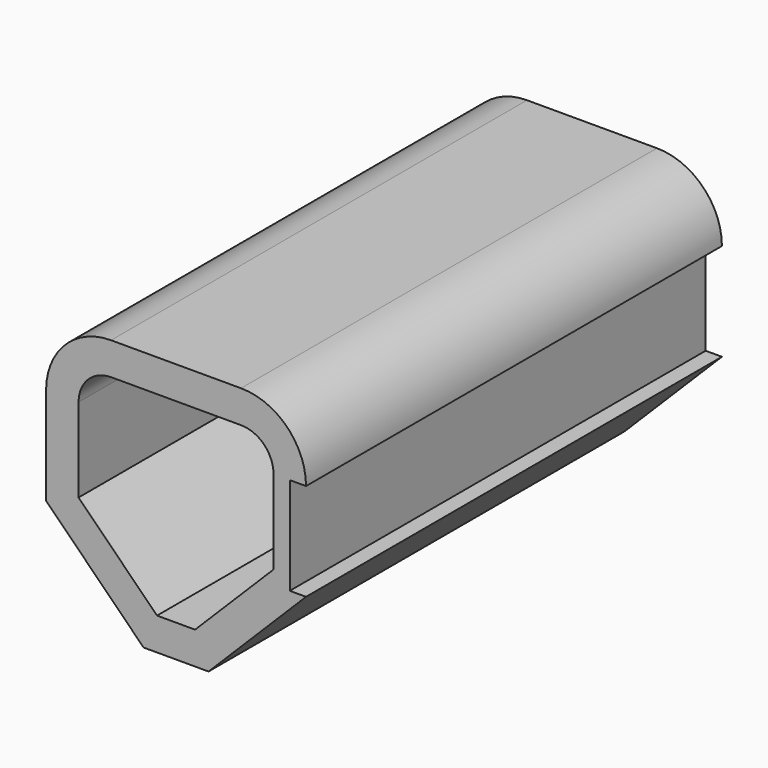
from build123d import *

# Parameters (mm, degrees)
F0_W      = 40
F0_H      = 80
F1_DEPTH  = 40
F2_SIZE   = 15
F3_R      = 10
F4_T      = -5
F1_FACE_W = 80
F1_FACE_H = 15
F5_DEPTH  = 2.5


with BuildPart() as f1:
    # F0 (on Top) → F1 (new body)
    with BuildSketch(Plane.XY):
        Rectangle(F0_W, F0_H)
    extrude(amount=F1_DEPTH)

    # F2
    f2_edges = [f1.edges().sort_by_distance(p)[0] for p in [
        (-20, 0, 0),
        (20, 0, 0),
    ]]
    chamfer(f2_edges, length=F2_SIZE)

    # F3
    f3_edges = [f1.edges().sort_by_distance(p)[0] for p in [
        (-20, 0, 40),
        (20, 0, 40),
    ]]
    fillet(f3_edges, radius=F3_R)

    # F4
    f4_openings = [f1.faces().sort_by_distance(p)[0] for p in [
        (0, -40, 21.961191),
    ]]
    offset(amount=F4_T, openings=f4_openings)

    # F1_face (on face) → F5 (cut)
    with BuildSketch(Plane(origin=(20, 0, 22.5), x_dir=(0, 1, 0), z_dir=(1, 0, 0))):
        Rectangle(F1_FACE_W, F1_FACE_H)
    extrude(amount=-F5_DEPTH, mode=Mode.SUBTRACT)


solid = f1.part
